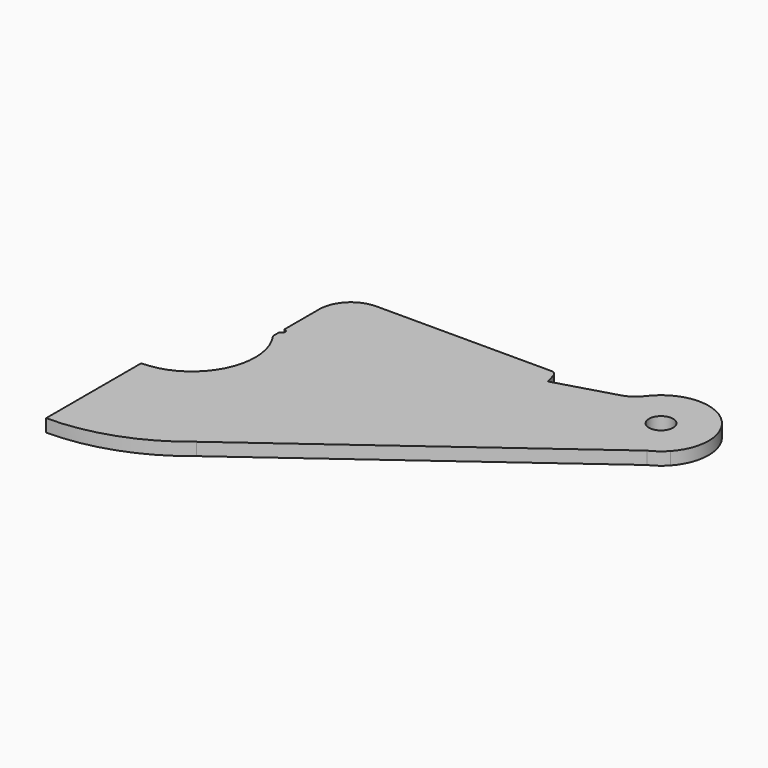
from build123d import *

# Parameters (mm, degrees)
F0_R     = 2.4257
F1_DEPTH = 2.54
F2_W     = 97.029246
F2_H     = 111.505382
F3_DEPTH = 12.7


with BuildPart() as f1:
    # F0 (on Top) → F1 (new body)
    with BuildSketch(Plane.XY):
        with BuildLine():
            ThreePointArc((10.31875, 7.403607), (0, -12.7), (-10.31875, 7.403607))
            Line((-10.31875, 7.403607), (-10.31875, 8.995426))
            ThreePointArc((-10.31875, 8.995426), (-10.947542, 9.624218), (-10.31875, 10.25301))
            Line((-10.31875, 10.25301), (-10.31875, 18.983854))
            ThreePointArc((-10.31875, 18.983854), (-12.178622, 23.473982), (-16.66875, 25.333854))
            Line((-16.66875, 25.333854), (-51.678968, 25.333854))
            ThreePointArc((-51.678968, 25.333854), (-52.440968, 25.079854), (-52.898168, 24.419454))
            Line((-52.898168, 24.419454), (-53.536901, 22.229512))
            Line((-53.536901, 22.229512), (-65.277999, 25.653999))
            ThreePointArc((-65.277999, 25.653999), (-67.114483, 26.529079), (-68.58, 27.94))
            ThreePointArc((-68.58, 27.94), (-83.100222, 28.791015), (-81.529968, 14.330884))
            Line((-81.529968, 14.330884), (-24.332909, -27.222641))
            ThreePointArc((-24.332909, -27.222641), (-0.623226, -36.507181), (23.389548, -28.037327))
            Line((23.389548, -28.037327), (80.234168, 13.596494))
            Line((80.234168, 13.596494), (83.209212, 15.775459))
            ThreePointArc((83.209212, 15.775459), (82.289932, 29.548821), (68.58, 27.94))
            ThreePointArc((68.58, 27.94), (67.114483, 26.529079), (65.277999, 25.653999))
            Line((65.277999, 25.653999), (53.540294, 22.230502))
            Line((53.540294, 22.230502), (52.90185, 24.419454))
            ThreePointArc((52.90185, 24.419454), (52.44465, 25.079854), (51.68265, 25.333854))
            Line((51.68265, 25.333854), (16.66875, 25.333854))
            ThreePointArc((16.66875, 25.333854), (12.178622, 23.473982), (10.31875, 18.983854))
            Line((10.31875, 18.983854), (10.31875, 10.259218))
            ThreePointArc((10.31875, 10.259218), (10.95375, 9.624218), (10.31875, 8.989218))
            Line((10.31875, 8.989218), (10.31875, 7.403607))
        make_face()
        with Locations((-76.2, 22.225)):
            Circle(F0_R, mode=Mode.SUBTRACT)
        with Locations((76.2, 22.225)):
            Circle(F0_R, mode=Mode.SUBTRACT)
        with BuildLine():
            ThreePointArc((80.234168, 13.596494), (81.828146, 14.540627), (83.209212, 15.775459))
            Line((83.209212, 15.775459), (80.234168, 13.596494))
        make_face()
    extrude(amount=F1_DEPTH)

    # F2 (on Top) → F3 (cut, symmetric)
    with BuildSketch(Plane.XY):
        with Locations((-48.514623, 0.097811)):
            Rectangle(F2_W, F2_H)
    extrude(amount=F3_DEPTH, both=True, mode=Mode.SUBTRACT)


solid = f1.part
